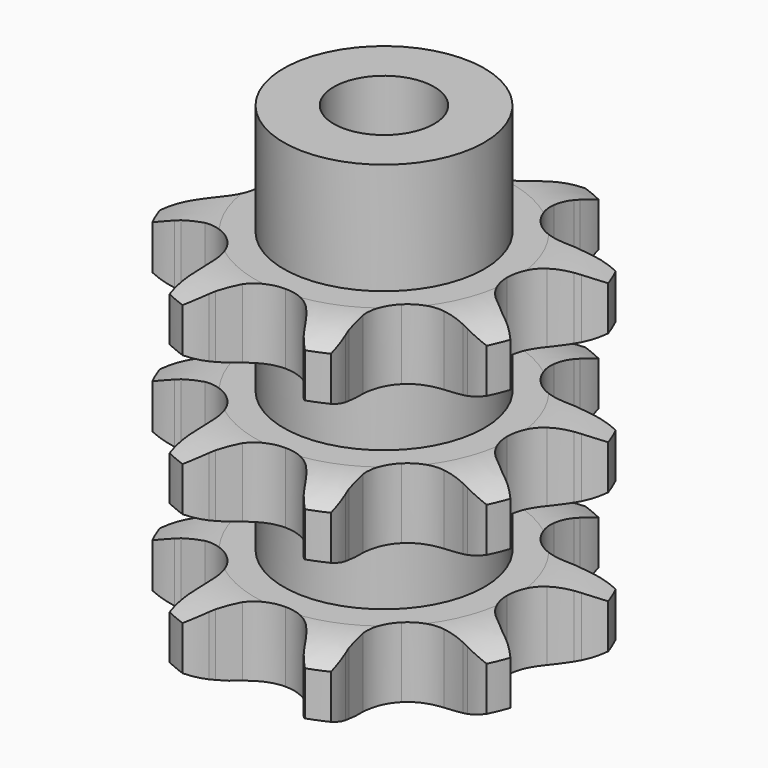
from build123d import *

# Parameters (mm, degrees)
PAD_DEPTH         = 34.9
SKETCH001_R       = 10
PAD001_DEPTH      = 46
SKETCH002_R       = 5
POCKET_DEPTH      = 0.001
POCKET_DEPTH_BACK = 46.001


with BuildPart() as part:
    # Sprocket → Pad (new body)
    with BuildSketch(Plane.XY):
        with BuildLine():
            ThreePointArc((-7.691496, 18.568914), (-6.037547, 17.419326), (-4.759071, 15.862856))
            Line((-4.759071, 15.862856), (-4.464, 15.381343))
            ThreePointArc((-4.464, 15.381343), (-3.86334, 14.499155), (-3.180891, 13.6786))
            ThreePointArc((-3.180891, 13.6786), (-1.7376, 12.644353), (0, 12.278975))
            ThreePointArc((0, 12.278975), (1.7376, 12.644353), (3.180891, 13.6786))
            ThreePointArc((3.180891, 13.6786), (3.86334, 14.499155), (4.464, 15.381343))
            Line((4.464, 15.381343), (4.759071, 15.862856))
            ThreePointArc((4.759071, 15.862856), (6.037547, 17.419326), (7.691496, 18.568914))
            ThreePointArc((7.691496, 18.568914), (8.048133, 16.586514), (7.851562, 14.581905))
            Line((7.851562, 14.581905), (7.719727, 14.032776))
            ThreePointArc((7.719727, 14.032776), (7.520658, 12.984245), (7.423001, 11.92146))
            ThreePointArc((7.423001, 11.92146), (7.712239, 10.169576), (8.682546, 8.682546))
            ThreePointArc((8.682546, 8.682546), (10.169576, 7.712239), (11.92146, 7.423001))
            Line((11.92146, 7.423001), (14.032776, 7.719727))
            ThreePointArc((14.032776, 7.719727), (14.306504, 7.78913), (14.581905, 7.851562))
            ThreePointArc((14.581905, 7.851562), (16.586514, 8.048133), (18.568914, 7.691496))
            ThreePointArc((18.568914, 7.691496), (17.419326, 6.037547), (15.862856, 4.759071))
            Line((15.862856, 4.759071), (15.381343, 4.464))
            ThreePointArc((15.381343, 4.464), (14.499155, 3.86334), (13.6786, 3.180891))
            ThreePointArc((13.6786, 3.180891), (12.644353, 1.7376), (12.278975, 0))
            ThreePointArc((12.278975, 0), (12.644353, -1.7376), (13.6786, -3.180891))
            Line((13.6786, -3.180891), (15.381343, -4.464))
            ThreePointArc((15.381343, -4.464), (15.623973, -4.608479), (15.862856, -4.759071))
            ThreePointArc((15.862856, -4.759071), (17.419326, -6.037547), (18.568914, -7.691496))
            ThreePointArc((18.568914, -7.691496), (16.586514, -8.048133), (14.581905, -7.851562))
            Line((14.581905, -7.851562), (14.032776, -7.719727))
            ThreePointArc((14.032776, -7.719727), (12.984245, -7.520658), (11.92146, -7.423001))
            ThreePointArc((11.92146, -7.423001), (10.169576, -7.712239), (8.682546, -8.682546))
            ThreePointArc((8.682546, -8.682546), (7.712239, -10.169576), (7.423001, -11.92146))
            Line((7.423001, -11.92146), (7.719727, -14.032776))
            ThreePointArc((7.719727, -14.032776), (7.78913, -14.306504), (7.851562, -14.581905))
            ThreePointArc((7.851562, -14.581905), (8.048133, -16.586514), (7.691496, -18.568914))
            ThreePointArc((7.691496, -18.568914), (6.037547, -17.419326), (4.759071, -15.862856))
            Line((4.759071, -15.862856), (4.464, -15.381343))
            ThreePointArc((4.464, -15.381343), (3.86334, -14.499155), (3.180891, -13.6786))
            ThreePointArc((3.180891, -13.6786), (1.7376, -12.644353), (0, -12.278975))
            ThreePointArc((0, -12.278975), (-1.7376, -12.644353), (-3.180891, -13.6786))
            Line((-3.180891, -13.6786), (-4.464, -15.381343))
            ThreePointArc((-4.464, -15.381343), (-4.608479, -15.623973), (-4.759071, -15.862856))
            ThreePointArc((-4.759071, -15.862856), (-6.037547, -17.419326), (-7.691496, -18.568914))
            ThreePointArc((-7.691496, -18.568914), (-8.048133, -16.586514), (-7.851562, -14.581905))
            Line((-7.851562, -14.581905), (-7.719727, -14.032776))
            ThreePointArc((-7.719727, -14.032776), (-7.520658, -12.984245), (-7.423001, -11.92146))
            ThreePointArc((-7.423001, -11.92146), (-7.712239, -10.169576), (-8.682546, -8.682546))
            ThreePointArc((-8.682546, -8.682546), (-10.169576, -7.712239), (-11.92146, -7.423001))
            Line((-11.92146, -7.423001), (-14.032776, -7.719727))
            ThreePointArc((-14.032776, -7.719727), (-14.306504, -7.78913), (-14.581905, -7.851562))
            ThreePointArc((-14.581905, -7.851562), (-16.586514, -8.048133), (-18.568914, -7.691496))
            ThreePointArc((-18.568914, -7.691496), (-17.419326, -6.037547), (-15.862856, -4.759071))
            Line((-15.862856, -4.759071), (-15.381343, -4.464))
            ThreePointArc((-15.381343, -4.464), (-14.499155, -3.86334), (-13.6786, -3.180891))
            ThreePointArc((-13.6786, -3.180891), (-12.644353, -1.7376), (-12.278975, 0))
            ThreePointArc((-12.278975, 0), (-12.644353, 1.7376), (-13.6786, 3.180891))
            Line((-13.6786, 3.180891), (-15.381343, 4.464))
            ThreePointArc((-15.381343, 4.464), (-15.623973, 4.608479), (-15.862856, 4.759071))
            ThreePointArc((-15.862856, 4.759071), (-17.419326, 6.037547), (-18.568914, 7.691496))
            ThreePointArc((-18.568914, 7.691496), (-16.586514, 8.048133), (-14.581905, 7.851562))
            Line((-14.581905, 7.851562), (-14.032776, 7.719727))
            ThreePointArc((-14.032776, 7.719727), (-12.984245, 7.520658), (-11.92146, 7.423001))
            ThreePointArc((-11.92146, 7.423001), (-10.169576, 7.712239), (-8.682546, 8.682546))
            ThreePointArc((-8.682546, 8.682546), (-7.712239, 10.169576), (-7.423001, 11.92146))
            Line((-7.423001, 11.92146), (-7.719727, 14.032776))
            ThreePointArc((-7.719727, 14.032776), (-7.78913, 14.306504), (-7.851562, 14.581905))
            ThreePointArc((-7.851562, 14.581905), (-8.048133, 16.586514), (-7.691496, 18.568914))
        make_face()
    extrude(amount=PAD_DEPTH)

    # Sketch → Groove (revolve, cut)
    with BuildSketch(Plane.XZ):
        with BuildLine():
            ThreePointArc((12.833431, 0), (15.74032, 0.329167), (18.5, 1.3))
            Line((18.5, 1.3), (18.5, 5.7))
            ThreePointArc((18.5, 5.7), (15.74032, 6.670833), (12.833431, 7))
            Line((10, 7), (12.833431, 7))
            Line((10, 7), (10, 13.95))
            Line((10, 13.95), (12.833431, 13.95))
            ThreePointArc((12.833431, 13.95), (15.74032, 14.279167), (18.5, 15.25))
            Line((18.5, 19.65), (18.5, 15.25))
            ThreePointArc((18.5, 19.65), (15.74032, 20.620833), (12.833431, 20.95))
            Line((10, 20.95), (12.833431, 20.95))
            Line((10, 27.9), (10, 20.95))
            Line((12.833431, 27.9), (10, 27.9))
            ThreePointArc((12.833431, 27.9), (15.74032, 28.229167), (18.5, 29.2))
            Line((18.5, 29.2), (18.5, 33.6))
            ThreePointArc((18.5, 33.6), (15.74032, 34.570833), (12.833431, 34.9))
            Line((12.833431, 34.9), (28.5, 34.9))
            Line((28.5, 34.9), (28.5, 0))
            Line((12.833431, 0), (28.5, 0))
        make_face()
    revolve(axis=Axis((0, 0, 0), (0, 0, 1)), mode=Mode.SUBTRACT)

    # Sketch001 → Pad001 (join)
    with BuildSketch(Plane.XY):
        Circle(SKETCH001_R)
    extrude(amount=PAD001_DEPTH)

    # Sketch002 → Pocket (cut, two sides)
    with BuildSketch(Plane.XY) as pocket_sk:
        Circle(SKETCH002_R)
    extrude(amount=-POCKET_DEPTH, mode=Mode.SUBTRACT)
    extrude(pocket_sk.sketch, amount=POCKET_DEPTH_BACK, mode=Mode.SUBTRACT)


solid = part.part
